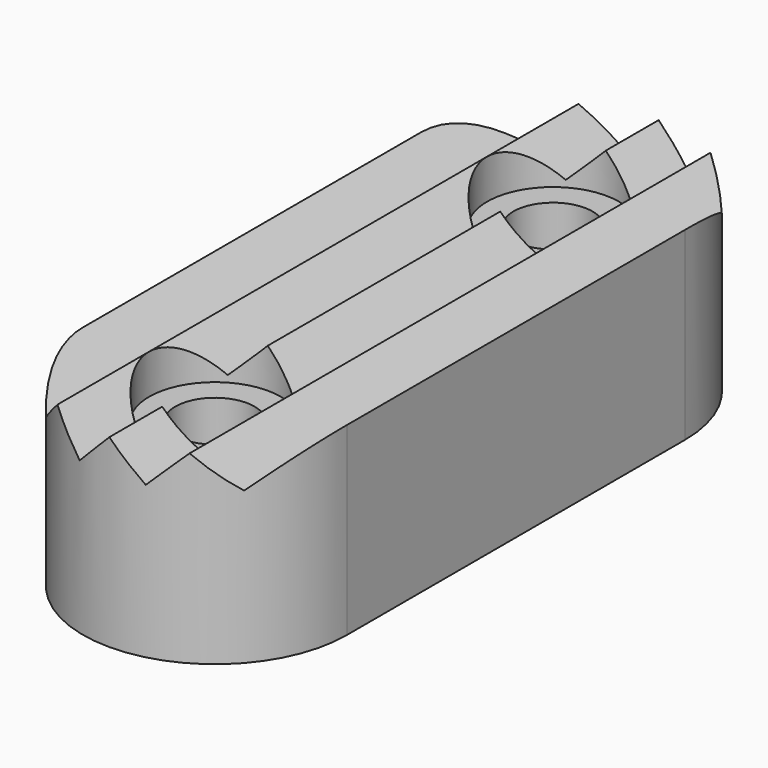
from build123d import *

# Parameters (mm, degrees)
F1_DEPTH = 7
F3_DEPTH = 50
F4_DEPTH = 100
F6_R     = 2.5
F7_DEPTH = 1.5


with BuildPart() as f1:
    # F0 (on Top) → F1 (new body)
    with BuildSketch(Plane.XY):
        with BuildLine():
            Line((5, 8), (1.5, 8))
            ThreePointArc((1.5, 8), (0, 6.5), (-1.5, 8))
            Line((-1.5, 8), (-5, 8))
            Line((-5, 8), (-5, -8))
            Line((-5, -8), (-1.5, -8))
            ThreePointArc((-1.5, -8), (0, -6.5), (1.5, -8))
            Line((1.5, -8), (5, -8))
            Line((5, -8), (5, 8))
        make_face()
        with BuildLine():
            ThreePointArc((-1.5, 8), (0, 9.5), (1.5, 8))
            Line((1.5, 8), (5, 8))
            ThreePointArc((5, 8), (0, 13), (-5, 8))
            Line((-5, 8), (-1.5, 8))
        make_face()
        with BuildLine():
            ThreePointArc((-5, -8), (0, -13), (5, -8))
            Line((5, -8), (1.5, -8))
            ThreePointArc((1.5, -8), (0, -9.5), (-1.5, -8))
            Line((-1.5, -8), (-5, -8))
        make_face()
    extrude(amount=F1_DEPTH)


with BuildPart() as f3:
    # F2 (on Front) → F3 (new body)
    with BuildSketch(Plane.XZ):
        Polygon((-3.75, 5.75), (-2.5, 7), (-5, 7), align=None)
    extrude(amount=F3_DEPTH)


with BuildPart() as f3b:
    # F2 (on Front) → F3, piece 2 (new body)
    with BuildSketch(Plane.XZ):
        Polygon((-1.25, 5.75), (0, 7), (-2.5, 7), align=None)
    extrude(amount=F3_DEPTH)


with BuildPart() as f3c:
    # F2 (on Front) → F3, piece 3 (new body)
    with BuildSketch(Plane.XZ):
        Polygon((2.5, 7), (0, 7), (1.25, 5.75), align=None)
    extrude(amount=F3_DEPTH)


with BuildPart() as f3d:
    # F2 (on Front) → F3, piece 4 (new body)
    with BuildSketch(Plane.XZ):
        Polygon((5, 7), (2.5, 7), (3.75, 5.75), align=None)
    extrude(amount=F3_DEPTH)


with BuildPart() as f4_tool:
    # F3_face (on face) → F4 (new body)
    with BuildSketch(Plane(origin=(-3.75, -50, 6.5833333333), x_dir=(1, 0, 0), z_dir=(0, -1, 0))):
        Polygon((0, -0.8333333333), (1.25, 0.4166666667), (-1.25, 0.4166666667), align=None)
        Polygon((2.5, -0.8333333333), (3.75, 0.4166666667), (1.25, 0.4166666667), align=None)
        Polygon((6.25, 0.4166666667), (3.75, 0.4166666667), (5, -0.8333333333), align=None)
        Polygon((8.75, 0.4166666667), (6.25, 0.4166666667), (7.5, -0.8333333333), align=None)
    extrude(amount=-F4_DEPTH)


with BuildPart() as f1_1:
    add(f1.part)

    # F4: cut by f4_tool
    add(f4_tool.part, mode=Mode.SUBTRACT)

    # F6 (on offset) → F7 (cut)
    with BuildSketch(Plane.XY.offset(7)):
        with Locations((0, -8)):
            Circle(F6_R)
        with Locations((0, 8)):
            Circle(F6_R)
    extrude(amount=-F7_DEPTH, mode=Mode.SUBTRACT)


with BuildPart() as f3_1:
    add(f3.part)

    # F4: cut by f4_tool
    add(f4_tool.part, mode=Mode.SUBTRACT)


with BuildPart() as f3b_1:
    add(f3b.part)

    # F4: cut by f4_tool
    add(f4_tool.part, mode=Mode.SUBTRACT)


with BuildPart() as f3c_1:
    add(f3c.part)

    # F4: cut by f4_tool
    add(f4_tool.part, mode=Mode.SUBTRACT)


with BuildPart() as f3d_1:
    add(f3d.part)

    # F4: cut by f4_tool
    add(f4_tool.part, mode=Mode.SUBTRACT)


solid = f1_1.part
